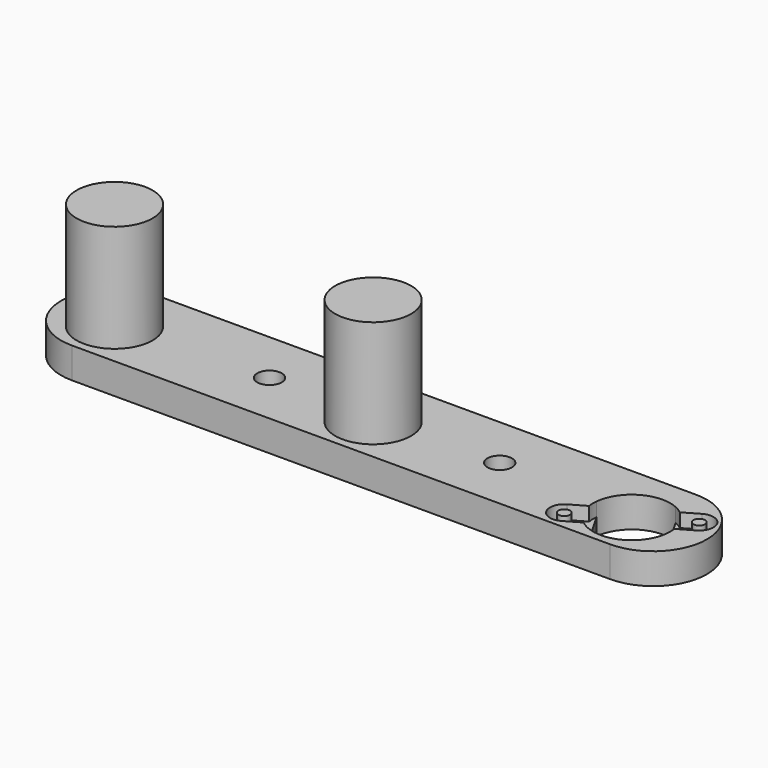
from build123d import *

# Parameters (mm, degrees)
CYLINDER018_R        = 1.6
CYLINDER018_DEPTH    = 10
CYLINDER017_R        = 1.6
CYLINDER017_DEPTH    = 10
PAD_DEPTH            = 18
SKETCH002_R          = 0.75
PAD001_DEPTH         = 1.8
CYLINDER_R           = 5.025
CYLINDER_DEPTH       = 1.8
BODY_PLACEMENT_ANGLE = 60
CYLINDER006_R        = 4.95
CYLINDER006_DEPTH    = 14
EXTRUDE_DEPTH        = 4
CYLINDER005_R        = 4.95
CYLINDER005_DEPTH    = 14


with BuildPart() as cylinder018:
    # Cylinder018 → Cylinder018 (new body)
    with BuildSketch(Plane(origin=(-30, 0, -3), x_dir=(1, 0, 0), z_dir=(0, 0, 1))):
        Circle(CYLINDER018_R)
    extrude(amount=CYLINDER018_DEPTH)


with BuildPart() as fusion021:
    # Cylinder017 → Cylinder017 (new body)
    with BuildSketch(Plane.XY.offset(-3)):
        Circle(CYLINDER017_R)
    extrude(amount=CYLINDER017_DEPTH)

    # Fusion019: union Cylinder018
    add(cylinder018.part)


with BuildPart() as fusion021_1:
    # Fusion019 placement: moved
    add(fusion021.part.moved(Location((-18, 1, 0))))


with BuildPart() as motorbody:
    # Sketch001 → Pad (new body)
    with BuildSketch(Plane.XY):
        with BuildLine():
            ThreePointArc((-2.940238, 4.075), (-5.025, 0), (-2.940238, -4.075))
            Line((-2.940238, -4.075), (2.940238, -4.075))
            ThreePointArc((2.940238, -4.075), (5.025, 0), (2.940238, 4.075))
            Line((-2.940238, 4.075), (2.940238, 4.075))
        make_face()
    extrude(amount=PAD_DEPTH)

    # Sketch002 → Pad001 (join)
    with BuildSketch(Plane.XY):
        with BuildLine():
            ThreePointArc((1.85, 6.95), (0, 8.8), (-1.85, 6.95))
            Line((-1.85, 6.95), (-1.85, -6.950003))
            ThreePointArc((-1.85, -6.950003), (2e-06, -8.8), (1.85, -6.949999))
            Line((1.85, 6.95), (1.85, -6.949999))
        make_face()
        with Locations((0, 6.95)):
            Circle(SKETCH002_R, mode=Mode.SUBTRACT)
        with Locations((0, -6.95)):
            Circle(SKETCH002_R, mode=Mode.SUBTRACT)
    extrude(amount=PAD001_DEPTH)

    # Cylinder → Cylinder (join)
    with BuildSketch(Plane.XY):
        Circle(CYLINDER_R)
    extrude(amount=CYLINDER_DEPTH)


with BuildPart() as motorbody_1:
    # Body placement: moved
    add(motorbody.part.rotate(Axis((0, 0, 0), (0, 0, -1)), BODY_PLACEMENT_ANGLE))


with BuildPart() as cylinder006:
    # Cylinder006 → Cylinder006 (new body)
    with BuildSketch(Plane(origin=(-33.693581, 0, -14), x_dir=(1, 0, 0), z_dir=(0, 0, 1))):
        Circle(CYLINDER006_R)
    extrude(amount=CYLINDER006_DEPTH)


with BuildPart() as extrude_body:
    # Sketch009 → Extrude (new body)
    with BuildSketch(Plane.XY):
        with BuildLine():
            ThreePointArc((-68.158607, 8), (-75.158607, 1), (-68.158607, -6))
            Line((-68.158607, -6), (2, -6))
            ThreePointArc((2, -6), (9, 1), (2, 8))
            Line((-68.158607, 8), (2, 8))
        make_face()
    extrude(amount=EXTRUDE_DEPTH)


with BuildPart() as rightdriveskid:
    # Cylinder005 → Cylinder005 (new body)
    with BuildSketch(Plane(origin=(-67.3872, 0, -14), x_dir=(1, 0, 0), z_dir=(0, 0, 1))):
        Circle(CYLINDER005_R)
    extrude(amount=CYLINDER005_DEPTH)

    # Fusion005: union Cylinder006, Extrude body
    add(cylinder006.part)
    add(extrude_body.part)

    # Cut002: cut MotorBody
    add(motorbody_1.part, mode=Mode.SUBTRACT)

    # Cut011: cut Fusion021
    add(fusion021_1.part, mode=Mode.SUBTRACT)


with BuildPart() as leftdriveskid:
    # Part__Mirroring003: instance of RightDriveSkid
    add(rightdriveskid.part.mirror(Plane(origin=(0, 0, 0), x_dir=(0, 1, 0), z_dir=(0, 0, 1))))


solid = leftdriveskid.part
